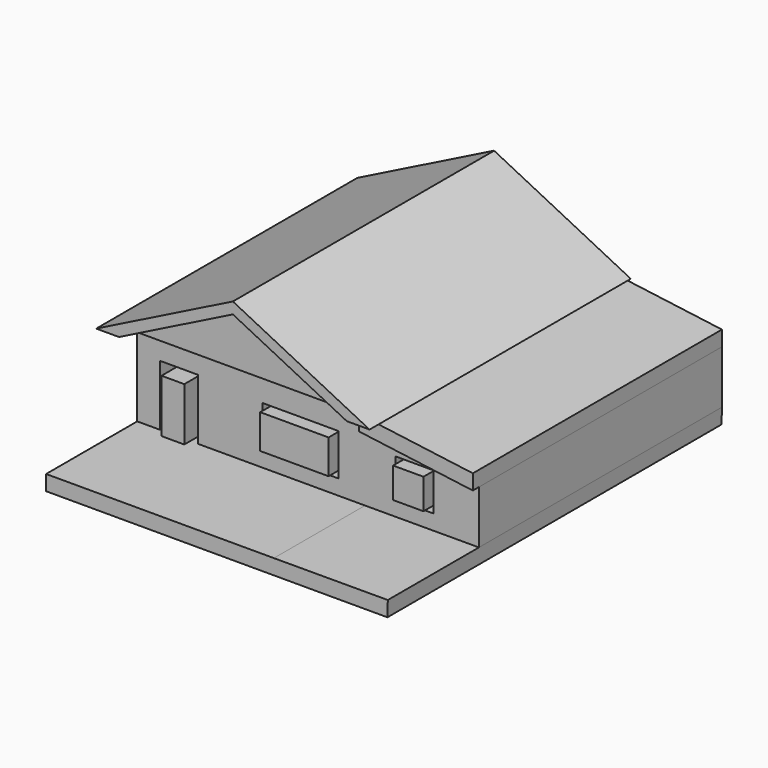
from build123d import *

# Parameters (mm, degrees)
F1_DEPTH = 1092.2
F2_DEPTH = 1041.4
F3_DEPTH = 1041.4
F0_W     = 254
F0_H     = 139.7
F0_W_2   = 127
F0_H_2   = 127
F4_DEPTH = 1016
F5_DEPTH = 1397
F0_W_3   = 101.6
F0_H_3   = 101.6
F6_DEPTH = 1041.4
F0_W_4   = 228.6
F0_H_4   = 114.3
F0_W_5   = 76.2
F0_H_5   = 177.8


with BuildPart() as f1:
    # F0 (on Front) → F1 (new body)
    with BuildSketch(Plane.XZ):
        Polygon((-457.2, 0), (-381, 0), (0, 190.5), (0, 228.6), align=None)
        Polygon((0, 190.5), (381, 0), (457.2, 0), (0, 228.6), align=None)
    extrude(amount=F1_DEPTH)

    # F0 (on Front) → F2 (join)
    with BuildSketch(Plane.XZ):
        Polygon((-381, 0), (0, 0), (0, 190.5), align=None)
        Polygon((0, 190.5), (0, 0), (381, 0), align=None)
    extrude(amount=F2_DEPTH)


with BuildPart() as f3:
    # F0 (on Front) → F3 (new body)
    with BuildSketch(Plane.XZ):
        Polygon((761.999634578, -50.272315), (381, 0), (381, -50.8), (761.999634578, -101.072315), align=None)
    extrude(amount=F3_DEPTH)


with BuildPart() as f4:
    # F0 (on Front) → F4 (new body)
    with BuildSketch(Plane.XZ):
        Polygon((381, 0), (0, 0), (-381, 0), (-381, -279.4), (-304.8, -279.4), (-304.8, -76.2), (-177.8, -76.2), (-177.8, -279.4), (381, -279.4), (381, -50.8), align=None)
        with Locations((165.1, -158.75)):
            Rectangle(F0_W, F0_H, mode=Mode.SUBTRACT)
        Polygon((761.999634578, -101.072315), (381, -50.8), (381, -279.4), (761.999634578, -278.872315), align=None)
        with Locations((546.099634578, -164.9416339505)):
            Rectangle(F0_W_2, F0_H_2, mode=Mode.SUBTRACT)
    extrude(amount=F4_DEPTH)

    # F0 (on Front) → F5 (join)
    with BuildSketch(Plane.XZ):
        Polygon((-304.8, -279.4), (-381, -279.4), (-381, -330.2), (760.7958912849, -330.2), (761.999634578, -278.872315), (381, -279.4), (-177.8, -279.4), (-203.2, -279.4), (-279.4, -279.4), align=None)
    extrude(amount=F5_DEPTH)

    # F0 (on Front) → F6, piece 3 (join)
    with BuildSketch(Plane.XZ):
        with Locations((-241.3, -190.5)):
            Rectangle(F0_W_5, F0_H_5)
    extrude(amount=F6_DEPTH)


with BuildPart() as f6:
    # F0 (on Front) → F6 (new body)
    with BuildSketch(Plane.XZ):
        with Locations((546.099634578, -164.9416339505)):
            Rectangle(F0_W_3, F0_H_3)
    extrude(amount=F6_DEPTH)


with BuildPart() as f6b:
    # F0 (on Front) → F6, piece 2 (new body)
    with BuildSketch(Plane.XZ):
        with Locations((165.1, -158.75)):
            Rectangle(F0_W_4, F0_H_4)
    extrude(amount=F6_DEPTH)


solid = Compound([f1.part, f3.part, f4.part, f6.part, f6b.part])
